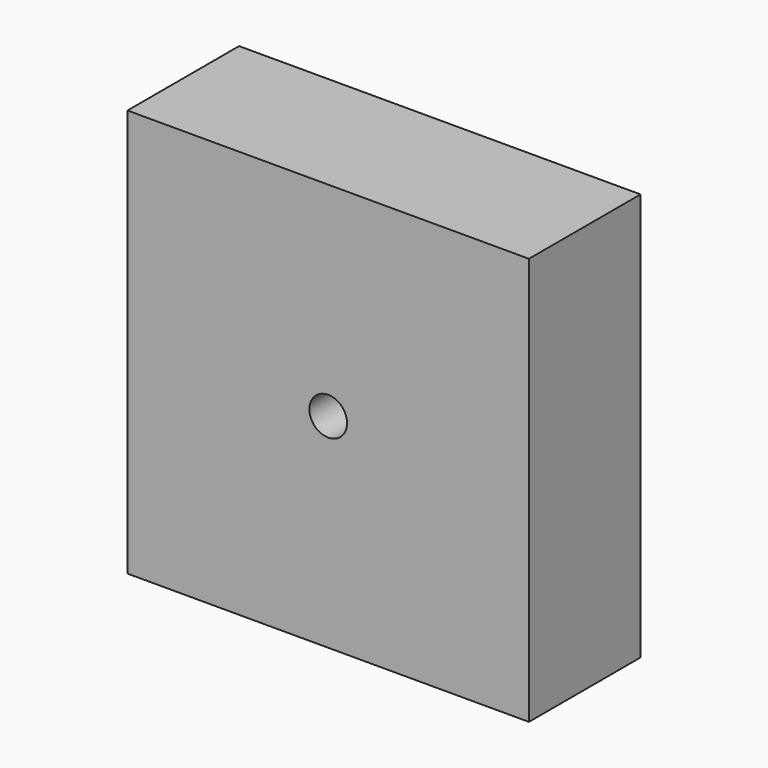
from build123d import *

# Parameters (mm, degrees)
F0_W     = 71.9553306699
F0_H     = 73.079623282
F1_DEPTH = 25
F3_D     = 6.7564


with BuildPart() as f1:
    # F0 (on Front) → F1 (new body)
    with BuildSketch(Plane.XZ):
        Rectangle(F0_W, F0_H)
    extrude(amount=F1_DEPTH)

    # F3 (through all)
    with Locations(Plane(origin=(0, 0, 0), x_dir=(-1, 0, 0), z_dir=(0, 1, 0))):
        with Locations((0, 0)):
            Hole(F3_D / 2)


solid = f1.part
